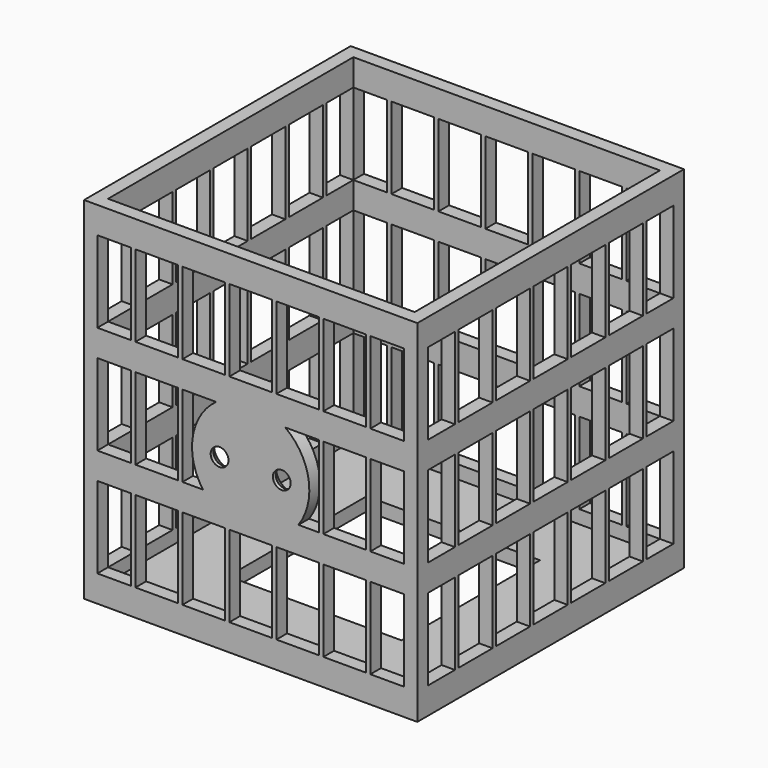
from build123d import *

# Parameters (mm, degrees)
CYLINDER004_R                   = 2
CYLINDER004_DEPTH               = 12
MATRIX_UNION001_PLACEMENT_ANGLE = 90
CYLINDER002_R                   = 2
CYLINDER002_DEPTH               = 12
MATRIX_UNION_PLACEMENT_ANGLE    = 90
CUBE019_W                       = 1
CUBE019_H                       = 3
CUBE019_DEPTH                   = 79
CUBE020_W                       = 1
CUBE020_H                       = 3
CUBE020_DEPTH                   = 79
CUBE021_W                       = 1
CUBE021_H                       = 3
CUBE021_DEPTH                   = 79
CUBE022_W                       = 1
CUBE022_H                       = 3
CUBE022_DEPTH                   = 79
CUBE023_W                       = 1
CUBE023_H                       = 3
CUBE023_DEPTH                   = 79
CUBE024_W                       = 1
CUBE024_H                       = 3
CUBE024_DEPTH                   = 79
CUBE025_W                       = 3
CUBE025_H                       = 3
CUBE025_DEPTH                   = 79
CUBE018_W                       = 3
CUBE018_H                       = 3
CUBE018_DEPTH                   = 79
CUBE011_W                       = 1
CUBE011_H                       = 3
CUBE011_DEPTH                   = 79
CUBE012_W                       = 1
CUBE012_H                       = 3
CUBE012_DEPTH                   = 79
CUBE013_W                       = 1
CUBE013_H                       = 3
CUBE013_DEPTH                   = 79
CUBE014_W                       = 1
CUBE014_H                       = 3
CUBE014_DEPTH                   = 79
CUBE015_W                       = 1
CUBE015_H                       = 3
CUBE015_DEPTH                   = 79
CUBE016_W                       = 1
CUBE016_H                       = 3
CUBE016_DEPTH                   = 79
CUBE017_W                       = 3
CUBE017_H                       = 3
CUBE017_DEPTH                   = 79
CUBE010_W                       = 3
CUBE010_H                       = 3
CUBE010_DEPTH                   = 79
CUBE028_W                       = 75
CUBE028_H                       = 3
CUBE028_DEPTH                   = 6
CUBE029_W                       = 75
CUBE029_H                       = 3
CUBE029_DEPTH                   = 6
CUBE030_W                       = 75
CUBE030_H                       = 3
CUBE030_DEPTH                   = 6
CUBE027_W                       = 75
CUBE027_H                       = 3
CUBE027_DEPTH                   = 6
CUBE031_W                       = 75
CUBE031_H                       = 18
CUBE031_DEPTH                   = 3
CUBE033_W                       = 75
CUBE033_H                       = 3
CUBE033_DEPTH                   = 6
CUBE034_W                       = 75
CUBE034_H                       = 3
CUBE034_DEPTH                   = 6
CUBE035_W                       = 75
CUBE035_H                       = 3
CUBE035_DEPTH                   = 6
CUBE032_W                       = 75
CUBE032_H                       = 3
CUBE032_DEPTH                   = 6
CUBE026_W                       = 75
CUBE026_H                       = 18
CUBE026_DEPTH                   = 3
CUBE045_W                       = 3
CUBE045_H                       = 1
CUBE045_DEPTH                   = 79
CUBE046_W                       = 3
CUBE046_H                       = 1
CUBE046_DEPTH                   = 79
CUBE047_W                       = 3
CUBE047_H                       = 1
CUBE047_DEPTH                   = 79
CUBE048_W                       = 3
CUBE048_H                       = 1
CUBE048_DEPTH                   = 79
CUBE049_W                       = 3
CUBE049_H                       = 1
CUBE049_DEPTH                   = 79
CUBE050_W                       = 3
CUBE050_H                       = 1
CUBE050_DEPTH                   = 79
CUBE051_W                       = 3
CUBE051_H                       = 1
CUBE051_DEPTH                   = 79
CUBE044_W                       = 3
CUBE044_H                       = 1
CUBE044_DEPTH                   = 79
CUBE037_W                       = 3
CUBE037_H                       = 1
CUBE037_DEPTH                   = 79
CUBE038_W                       = 3
CUBE038_H                       = 1
CUBE038_DEPTH                   = 79
CUBE039_W                       = 3
CUBE039_H                       = 1
CUBE039_DEPTH                   = 79
CUBE040_W                       = 3
CUBE040_H                       = 1
CUBE040_DEPTH                   = 79
CUBE041_W                       = 3
CUBE041_H                       = 1
CUBE041_DEPTH                   = 79
CUBE042_W                       = 3
CUBE042_H                       = 1
CUBE042_DEPTH                   = 79
CUBE043_W                       = 3
CUBE043_H                       = 1
CUBE043_DEPTH                   = 79
CUBE036_W                       = 3
CUBE036_H                       = 1
CUBE036_DEPTH                   = 79
CYLINDER_R                      = 13.2
CYLINDER_DEPTH                  = 3
CUBE002_W                       = 3
CUBE002_H                       = 75
CUBE002_DEPTH                   = 6
CUBE003_W                       = 3
CUBE003_H                       = 75
CUBE003_DEPTH                   = 6
CUBE004_W                       = 3
CUBE004_H                       = 75
CUBE004_DEPTH                   = 6
CUBE001_W                       = 3
CUBE001_H                       = 75
CUBE001_DEPTH                   = 6
CUBE005_W                       = 18
CUBE005_H                       = 75
CUBE005_DEPTH                   = 3
CUBE007_W                       = 3
CUBE007_H                       = 75
CUBE007_DEPTH                   = 6
CUBE008_W                       = 3
CUBE008_H                       = 75
CUBE008_DEPTH                   = 6
CUBE009_W                       = 3
CUBE009_H                       = 75
CUBE009_DEPTH                   = 6
CUBE006_W                       = 3
CUBE006_H                       = 75
CUBE006_DEPTH                   = 6
CUBE_W                          = 18
CUBE_H                          = 75
CUBE_DEPTH                      = 3


with BuildPart() as cylinder004:
    # cylinder004 → cylinder004 (new body)
    with BuildSketch(Plane.XY):
        Circle(CYLINDER004_R)
    extrude(amount=CYLINDER004_DEPTH)


with BuildPart() as matrix_union001:
    # cylinder003 → cylinder003 (revolve)
    with BuildSketch(Plane.XZ):
        Polygon((0, 0), (3.7, 0), (2, 2.2), (0, 2.2), align=None)
    revolve(axis=Axis((0, 0, 0), (0, 0, 1)))

    # Matrix_Union001: union cylinder004
    add(cylinder004.part)


with BuildPart() as matrix_union001_1:
    # Matrix_Union001 placement: moved
    add(matrix_union001.part.moved(Location((7, 0, 0))).rotate(Axis((7, 0, 0), (1, 0, 0)), MATRIX_UNION001_PLACEMENT_ANGLE))


with BuildPart() as cylinder002:
    # cylinder002 → cylinder002 (new body)
    with BuildSketch(Plane.XY):
        Circle(CYLINDER002_R)
    extrude(amount=CYLINDER002_DEPTH)


with BuildPart() as group012:
    # cylinder001 → cylinder001 (revolve)
    with BuildSketch(Plane.XZ):
        Polygon((0, 0), (3.7, 0), (2, 2.2), (0, 2.2), align=None)
    revolve(axis=Axis((0, 0, 0), (0, 0, 1)))

    # Matrix_Union: union cylinder002
    add(cylinder002.part)


with BuildPart() as group012_1:
    # Matrix_Union placement: moved
    add(group012.part.moved(Location((-7, 0, 0))).rotate(Axis((-7, 0, 0), (1, 0, 0)), MATRIX_UNION_PLACEMENT_ANGLE))

    # Group012: union Matrix_Union001
    add(matrix_union001_1.part)


with BuildPart() as group012_2:
    # Group012 placement: moved
    add(group012_1.part.moved(Location((37.5, 3, 38))))


with BuildPart() as cube019:
    # cube019 → cube019 (new body)
    with BuildSketch(Plane(origin=(10.5714, 72, 0), x_dir=(1, 0, 0), z_dir=(0, 0, 1))):
        with Locations((0.5, 1.5)):
            Rectangle(CUBE019_W, CUBE019_H)
    extrude(amount=CUBE019_DEPTH)


with BuildPart() as cube020:
    # cube020 → cube020 (new body)
    with BuildSketch(Plane(origin=(21.1429, 72, 0), x_dir=(1, 0, 0), z_dir=(0, 0, 1))):
        with Locations((0.5, 1.5)):
            Rectangle(CUBE020_W, CUBE020_H)
    extrude(amount=CUBE020_DEPTH)


with BuildPart() as cube021:
    # cube021 → cube021 (new body)
    with BuildSketch(Plane(origin=(31.7143, 72, 0), x_dir=(1, 0, 0), z_dir=(0, 0, 1))):
        with Locations((0.5, 1.5)):
            Rectangle(CUBE021_W, CUBE021_H)
    extrude(amount=CUBE021_DEPTH)


with BuildPart() as cube022:
    # cube022 → cube022 (new body)
    with BuildSketch(Plane(origin=(42.2857, 72, 0), x_dir=(1, 0, 0), z_dir=(0, 0, 1))):
        with Locations((0.5, 1.5)):
            Rectangle(CUBE022_W, CUBE022_H)
    extrude(amount=CUBE022_DEPTH)


with BuildPart() as cube023:
    # cube023 → cube023 (new body)
    with BuildSketch(Plane(origin=(52.8571, 72, 0), x_dir=(1, 0, 0), z_dir=(0, 0, 1))):
        with Locations((0.5, 1.5)):
            Rectangle(CUBE023_W, CUBE023_H)
    extrude(amount=CUBE023_DEPTH)


with BuildPart() as cube024:
    # cube024 → cube024 (new body)
    with BuildSketch(Plane(origin=(63.4286, 72, 0), x_dir=(1, 0, 0), z_dir=(0, 0, 1))):
        with Locations((0.5, 1.5)):
            Rectangle(CUBE024_W, CUBE024_H)
    extrude(amount=CUBE024_DEPTH)


with BuildPart() as cube025:
    # cube025 → cube025 (new body)
    with BuildSketch(Plane(origin=(72, 72, 0), x_dir=(1, 0, 0), z_dir=(0, 0, 1))):
        with Locations((1.5, 1.5)):
            Rectangle(CUBE025_W, CUBE025_H)
    extrude(amount=CUBE025_DEPTH)


with BuildPart() as group004:
    # cube018 → cube018 (new body)
    with BuildSketch(Plane(origin=(0, 72, 0), x_dir=(1, 0, 0), z_dir=(0, 0, 1))):
        with Locations((1.5, 1.5)):
            Rectangle(CUBE018_W, CUBE018_H)
    extrude(amount=CUBE018_DEPTH)

    # Group004: union cube019, cube020, cube021, cube022, cube023, cube024, cube025
    add(cube019.part)
    add(cube020.part)
    add(cube021.part)
    add(cube022.part)
    add(cube023.part)
    add(cube024.part)
    add(cube025.part)


with BuildPart() as cube011:
    # cube011 → cube011 (new body)
    with BuildSketch(Plane(origin=(10.5714, 0, 0), x_dir=(1, 0, 0), z_dir=(0, 0, 1))):
        with Locations((0.5, 1.5)):
            Rectangle(CUBE011_W, CUBE011_H)
    extrude(amount=CUBE011_DEPTH)


with BuildPart() as cube012:
    # cube012 → cube012 (new body)
    with BuildSketch(Plane(origin=(21.1429, 0, 0), x_dir=(1, 0, 0), z_dir=(0, 0, 1))):
        with Locations((0.5, 1.5)):
            Rectangle(CUBE012_W, CUBE012_H)
    extrude(amount=CUBE012_DEPTH)


with BuildPart() as cube013:
    # cube013 → cube013 (new body)
    with BuildSketch(Plane(origin=(31.7143, 0, 0), x_dir=(1, 0, 0), z_dir=(0, 0, 1))):
        with Locations((0.5, 1.5)):
            Rectangle(CUBE013_W, CUBE013_H)
    extrude(amount=CUBE013_DEPTH)


with BuildPart() as cube014:
    # cube014 → cube014 (new body)
    with BuildSketch(Plane(origin=(42.2857, 0, 0), x_dir=(1, 0, 0), z_dir=(0, 0, 1))):
        with Locations((0.5, 1.5)):
            Rectangle(CUBE014_W, CUBE014_H)
    extrude(amount=CUBE014_DEPTH)


with BuildPart() as cube015:
    # cube015 → cube015 (new body)
    with BuildSketch(Plane(origin=(52.8571, 0, 0), x_dir=(1, 0, 0), z_dir=(0, 0, 1))):
        with Locations((0.5, 1.5)):
            Rectangle(CUBE015_W, CUBE015_H)
    extrude(amount=CUBE015_DEPTH)


with BuildPart() as cube016:
    # cube016 → cube016 (new body)
    with BuildSketch(Plane(origin=(63.4286, 0, 0), x_dir=(1, 0, 0), z_dir=(0, 0, 1))):
        with Locations((0.5, 1.5)):
            Rectangle(CUBE016_W, CUBE016_H)
    extrude(amount=CUBE016_DEPTH)


with BuildPart() as cube017:
    # cube017 → cube017 (new body)
    with BuildSketch(Plane(origin=(72, 0, 0), x_dir=(1, 0, 0), z_dir=(0, 0, 1))):
        with Locations((1.5, 1.5)):
            Rectangle(CUBE017_W, CUBE017_H)
    extrude(amount=CUBE017_DEPTH)


with BuildPart() as group005:
    # cube010 → cube010 (new body)
    with BuildSketch(Plane.XY):
        with Locations((1.5, 1.5)):
            Rectangle(CUBE010_W, CUBE010_H)
    extrude(amount=CUBE010_DEPTH)

    # Group003: union cube011, cube012, cube013, cube014, cube015, cube016, cube017
    add(cube011.part)
    add(cube012.part)
    add(cube013.part)
    add(cube014.part)
    add(cube015.part)
    add(cube016.part)
    add(cube017.part)

    # Group005: union Group004
    add(group004.part)


with BuildPart() as cube028:
    # cube028 → cube028 (new body)
    with BuildSketch(Plane.XY.offset(24.3333)):
        with Locations((37.5, 1.5)):
            Rectangle(CUBE028_W, CUBE028_H)
    extrude(amount=CUBE028_DEPTH)


with BuildPart() as cube029:
    # cube029 → cube029 (new body)
    with BuildSketch(Plane.XY.offset(48.6667)):
        with Locations((37.5, 1.5)):
            Rectangle(CUBE029_W, CUBE029_H)
    extrude(amount=CUBE029_DEPTH)


with BuildPart() as cube030:
    # cube030 → cube030 (new body)
    with BuildSketch(Plane.XY.offset(73)):
        with Locations((37.5, 1.5)):
            Rectangle(CUBE030_W, CUBE030_H)
    extrude(amount=CUBE030_DEPTH)


with BuildPart() as group006:
    # cube027 → cube027 (new body)
    with BuildSketch(Plane.XY):
        with Locations((37.5, 1.5)):
            Rectangle(CUBE027_W, CUBE027_H)
    extrude(amount=CUBE027_DEPTH)

    # Group006: union cube028, cube029, cube030
    add(cube028.part)
    add(cube029.part)
    add(cube030.part)


with BuildPart() as cube031:
    # cube031 → cube031 (new body)
    with BuildSketch(Plane(origin=(0, 57, 0), x_dir=(1, 0, 0), z_dir=(0, 0, 1))):
        with Locations((37.5, 9)):
            Rectangle(CUBE031_W, CUBE031_H)
    extrude(amount=CUBE031_DEPTH)


with BuildPart() as cube033:
    # cube033 → cube033 (new body)
    with BuildSketch(Plane(origin=(0, 72, 24.3333), x_dir=(1, 0, 0), z_dir=(0, 0, 1))):
        with Locations((37.5, 1.5)):
            Rectangle(CUBE033_W, CUBE033_H)
    extrude(amount=CUBE033_DEPTH)


with BuildPart() as cube034:
    # cube034 → cube034 (new body)
    with BuildSketch(Plane(origin=(0, 72, 48.6667), x_dir=(1, 0, 0), z_dir=(0, 0, 1))):
        with Locations((37.5, 1.5)):
            Rectangle(CUBE034_W, CUBE034_H)
    extrude(amount=CUBE034_DEPTH)


with BuildPart() as cube035:
    # cube035 → cube035 (new body)
    with BuildSketch(Plane(origin=(0, 72, 73), x_dir=(1, 0, 0), z_dir=(0, 0, 1))):
        with Locations((37.5, 1.5)):
            Rectangle(CUBE035_W, CUBE035_H)
    extrude(amount=CUBE035_DEPTH)


with BuildPart() as group007:
    # cube032 → cube032 (new body)
    with BuildSketch(Plane(origin=(0, 72, 0), x_dir=(1, 0, 0), z_dir=(0, 0, 1))):
        with Locations((37.5, 1.5)):
            Rectangle(CUBE032_W, CUBE032_H)
    extrude(amount=CUBE032_DEPTH)

    # Group007: union cube033, cube034, cube035
    add(cube033.part)
    add(cube034.part)
    add(cube035.part)


with BuildPart() as group008:
    # cube026 → cube026 (new body)
    with BuildSketch(Plane.XY):
        with Locations((37.5, 9)):
            Rectangle(CUBE026_W, CUBE026_H)
    extrude(amount=CUBE026_DEPTH)

    # Group008: union Group006, cube031, Group007
    add(group006.part)
    add(cube031.part)
    add(group007.part)


with BuildPart() as cube045:
    # cube045 → cube045 (new body)
    with BuildSketch(Plane(origin=(72, 10.5714, 0), x_dir=(1, 0, 0), z_dir=(0, 0, 1))):
        with Locations((1.5, 0.5)):
            Rectangle(CUBE045_W, CUBE045_H)
    extrude(amount=CUBE045_DEPTH)


with BuildPart() as cube046:
    # cube046 → cube046 (new body)
    with BuildSketch(Plane(origin=(72, 21.1429, 0), x_dir=(1, 0, 0), z_dir=(0, 0, 1))):
        with Locations((1.5, 0.5)):
            Rectangle(CUBE046_W, CUBE046_H)
    extrude(amount=CUBE046_DEPTH)


with BuildPart() as cube047:
    # cube047 → cube047 (new body)
    with BuildSketch(Plane(origin=(72, 31.7143, 0), x_dir=(1, 0, 0), z_dir=(0, 0, 1))):
        with Locations((1.5, 0.5)):
            Rectangle(CUBE047_W, CUBE047_H)
    extrude(amount=CUBE047_DEPTH)


with BuildPart() as cube048:
    # cube048 → cube048 (new body)
    with BuildSketch(Plane(origin=(72, 42.2857, 0), x_dir=(1, 0, 0), z_dir=(0, 0, 1))):
        with Locations((1.5, 0.5)):
            Rectangle(CUBE048_W, CUBE048_H)
    extrude(amount=CUBE048_DEPTH)


with BuildPart() as cube049:
    # cube049 → cube049 (new body)
    with BuildSketch(Plane(origin=(72, 52.8571, 0), x_dir=(1, 0, 0), z_dir=(0, 0, 1))):
        with Locations((1.5, 0.5)):
            Rectangle(CUBE049_W, CUBE049_H)
    extrude(amount=CUBE049_DEPTH)


with BuildPart() as cube050:
    # cube050 → cube050 (new body)
    with BuildSketch(Plane(origin=(72, 63.4286, 0), x_dir=(1, 0, 0), z_dir=(0, 0, 1))):
        with Locations((1.5, 0.5)):
            Rectangle(CUBE050_W, CUBE050_H)
    extrude(amount=CUBE050_DEPTH)


with BuildPart() as cube051:
    # cube051 → cube051 (new body)
    with BuildSketch(Plane(origin=(72, 74, 0), x_dir=(1, 0, 0), z_dir=(0, 0, 1))):
        with Locations((1.5, 0.5)):
            Rectangle(CUBE051_W, CUBE051_H)
    extrude(amount=CUBE051_DEPTH)


with BuildPart() as group010:
    # cube044 → cube044 (new body)
    with BuildSketch(Plane(origin=(72, 0, 0), x_dir=(1, 0, 0), z_dir=(0, 0, 1))):
        with Locations((1.5, 0.5)):
            Rectangle(CUBE044_W, CUBE044_H)
    extrude(amount=CUBE044_DEPTH)

    # Group010: union cube045, cube046, cube047, cube048, cube049, cube050, cube051
    add(cube045.part)
    add(cube046.part)
    add(cube047.part)
    add(cube048.part)
    add(cube049.part)
    add(cube050.part)
    add(cube051.part)


with BuildPart() as cube037:
    # cube037 → cube037 (new body)
    with BuildSketch(Plane(origin=(0, 10.5714, 0), x_dir=(1, 0, 0), z_dir=(0, 0, 1))):
        with Locations((1.5, 0.5)):
            Rectangle(CUBE037_W, CUBE037_H)
    extrude(amount=CUBE037_DEPTH)


with BuildPart() as cube038:
    # cube038 → cube038 (new body)
    with BuildSketch(Plane(origin=(0, 21.1429, 0), x_dir=(1, 0, 0), z_dir=(0, 0, 1))):
        with Locations((1.5, 0.5)):
            Rectangle(CUBE038_W, CUBE038_H)
    extrude(amount=CUBE038_DEPTH)


with BuildPart() as cube039:
    # cube039 → cube039 (new body)
    with BuildSketch(Plane(origin=(0, 31.7143, 0), x_dir=(1, 0, 0), z_dir=(0, 0, 1))):
        with Locations((1.5, 0.5)):
            Rectangle(CUBE039_W, CUBE039_H)
    extrude(amount=CUBE039_DEPTH)


with BuildPart() as cube040:
    # cube040 → cube040 (new body)
    with BuildSketch(Plane(origin=(0, 42.2857, 0), x_dir=(1, 0, 0), z_dir=(0, 0, 1))):
        with Locations((1.5, 0.5)):
            Rectangle(CUBE040_W, CUBE040_H)
    extrude(amount=CUBE040_DEPTH)


with BuildPart() as cube041:
    # cube041 → cube041 (new body)
    with BuildSketch(Plane(origin=(0, 52.8571, 0), x_dir=(1, 0, 0), z_dir=(0, 0, 1))):
        with Locations((1.5, 0.5)):
            Rectangle(CUBE041_W, CUBE041_H)
    extrude(amount=CUBE041_DEPTH)


with BuildPart() as cube042:
    # cube042 → cube042 (new body)
    with BuildSketch(Plane(origin=(0, 63.4286, 0), x_dir=(1, 0, 0), z_dir=(0, 0, 1))):
        with Locations((1.5, 0.5)):
            Rectangle(CUBE042_W, CUBE042_H)
    extrude(amount=CUBE042_DEPTH)


with BuildPart() as cube043:
    # cube043 → cube043 (new body)
    with BuildSketch(Plane(origin=(0, 74, 0), x_dir=(1, 0, 0), z_dir=(0, 0, 1))):
        with Locations((1.5, 0.5)):
            Rectangle(CUBE043_W, CUBE043_H)
    extrude(amount=CUBE043_DEPTH)


with BuildPart() as group011:
    # cube036 → cube036 (new body)
    with BuildSketch(Plane.XY):
        with Locations((1.5, 0.5)):
            Rectangle(CUBE036_W, CUBE036_H)
    extrude(amount=CUBE036_DEPTH)

    # Group009: union cube037, cube038, cube039, cube040, cube041, cube042, cube043
    add(cube037.part)
    add(cube038.part)
    add(cube039.part)
    add(cube040.part)
    add(cube041.part)
    add(cube042.part)
    add(cube043.part)

    # Group011: union Group010
    add(group010.part)


with BuildPart() as cylinder:
    # cylinder → cylinder (new body)
    with BuildSketch(Plane(origin=(37.5, 3, 38), x_dir=(1, 0, 0), z_dir=(0, -1, 0))):
        Circle(CYLINDER_R)
    extrude(amount=CYLINDER_DEPTH)


with BuildPart() as cube002:
    # cube002 → cube002 (new body)
    with BuildSketch(Plane.XY.offset(24.3333)):
        with Locations((1.5, 37.5)):
            Rectangle(CUBE002_W, CUBE002_H)
    extrude(amount=CUBE002_DEPTH)


with BuildPart() as cube003:
    # cube003 → cube003 (new body)
    with BuildSketch(Plane.XY.offset(48.6667)):
        with Locations((1.5, 37.5)):
            Rectangle(CUBE003_W, CUBE003_H)
    extrude(amount=CUBE003_DEPTH)


with BuildPart() as cube004:
    # cube004 → cube004 (new body)
    with BuildSketch(Plane.XY.offset(73)):
        with Locations((1.5, 37.5)):
            Rectangle(CUBE004_W, CUBE004_H)
    extrude(amount=CUBE004_DEPTH)


with BuildPart() as group:
    # cube001 → cube001 (new body)
    with BuildSketch(Plane.XY):
        with Locations((1.5, 37.5)):
            Rectangle(CUBE001_W, CUBE001_H)
    extrude(amount=CUBE001_DEPTH)

    # Group: union cube002, cube003, cube004
    add(cube002.part)
    add(cube003.part)
    add(cube004.part)


with BuildPart() as cube005:
    # cube005 → cube005 (new body)
    with BuildSketch(Plane(origin=(57, 0, 0), x_dir=(1, 0, 0), z_dir=(0, 0, 1))):
        with Locations((9, 37.5)):
            Rectangle(CUBE005_W, CUBE005_H)
    extrude(amount=CUBE005_DEPTH)


with BuildPart() as cube007:
    # cube007 → cube007 (new body)
    with BuildSketch(Plane(origin=(72, 0, 24.3333), x_dir=(1, 0, 0), z_dir=(0, 0, 1))):
        with Locations((1.5, 37.5)):
            Rectangle(CUBE007_W, CUBE007_H)
    extrude(amount=CUBE007_DEPTH)


with BuildPart() as cube008:
    # cube008 → cube008 (new body)
    with BuildSketch(Plane(origin=(72, 0, 48.6667), x_dir=(1, 0, 0), z_dir=(0, 0, 1))):
        with Locations((1.5, 37.5)):
            Rectangle(CUBE008_W, CUBE008_H)
    extrude(amount=CUBE008_DEPTH)


with BuildPart() as cube009:
    # cube009 → cube009 (new body)
    with BuildSketch(Plane(origin=(72, 0, 73), x_dir=(1, 0, 0), z_dir=(0, 0, 1))):
        with Locations((1.5, 37.5)):
            Rectangle(CUBE009_W, CUBE009_H)
    extrude(amount=CUBE009_DEPTH)


with BuildPart() as group001:
    # cube006 → cube006 (new body)
    with BuildSketch(Plane(origin=(72, 0, 0), x_dir=(1, 0, 0), z_dir=(0, 0, 1))):
        with Locations((1.5, 37.5)):
            Rectangle(CUBE006_W, CUBE006_H)
    extrude(amount=CUBE006_DEPTH)

    # Group001: union cube007, cube008, cube009
    add(cube007.part)
    add(cube008.part)
    add(cube009.part)


with BuildPart() as difference001:
    # cube → cube (new body)
    with BuildSketch(Plane.XY):
        with Locations((9, 37.5)):
            Rectangle(CUBE_W, CUBE_H)
    extrude(amount=CUBE_DEPTH)

    # Group002: union Group, cube005, Group001
    add(group.part)
    add(cube005.part)
    add(group001.part)

    # union: union Group005, Group008, Group011, cylinder
    add(group005.part)
    add(group008.part)
    add(group011.part)
    add(cylinder.part)

    # difference: cut Group012
    add(group012_2.part, mode=Mode.SUBTRACT)


solid = difference001.part
